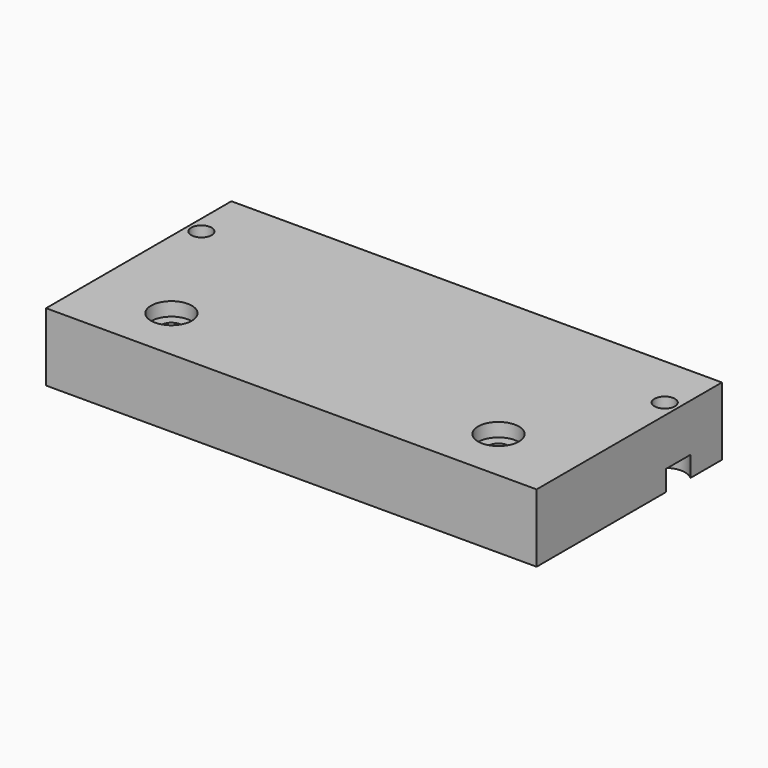
from build123d import *

# Parameters (mm, degrees)
CYLINDER320_R     = 1.5
CYLINDER320_DEPTH = 50
CYLINDER321_R     = 1.5
CYLINDER321_DEPTH = 50
CYLINDER322_R     = 1.5
CYLINDER322_DEPTH = 50
CYLINDER319_R     = 1.5
CYLINDER319_DEPTH = 50
CYLINDER323_R     = 3
CYLINDER323_DEPTH = 4
CYLINDER325_R     = 3
CYLINDER325_DEPTH = 4
CYLINDER326_R     = 3
CYLINDER326_DEPTH = 4
CYLINDER324_R     = 3
CYLINDER324_DEPTH = 4
CYLINDER293_R     = 1.5
CYLINDER293_DEPTH = 50
CYLINDER294_R     = 1.5
CYLINDER294_DEPTH = 50
CYLINDER297_R     = 3
CYLINDER297_DEPTH = 4
CYLINDER298_R     = 3
CYLINDER298_DEPTH = 4
BOX138_W          = 72
BOX138_H          = 34
BOX138_DEPTH      = 10


with BuildPart() as obj1:
    # Cylinder320 → Cylinder320 (new body)
    with BuildSketch(Plane(origin=(-51, 6, 0), x_dir=(1, 0, 0), z_dir=(0, 0, 1))):
        Circle(CYLINDER320_R)
    extrude(amount=CYLINDER320_DEPTH)


with BuildPart() as obj2:
    # Cylinder321 → Cylinder321 (new body)
    with BuildSketch(Plane(origin=(-24, 18, 0), x_dir=(1, 0, 0), z_dir=(0, 0, 1))):
        Circle(CYLINDER321_R)
    extrude(amount=CYLINDER321_DEPTH)


with BuildPart() as obj3:
    # Cylinder322 → Cylinder322 (new body)
    with BuildSketch(Plane(origin=(24, 18, 0), x_dir=(1, 0, 0), z_dir=(0, 0, 1))):
        Circle(CYLINDER322_R)
    extrude(amount=CYLINDER322_DEPTH)


with BuildPart() as compound295:
    # Cylinder319 → Cylinder319 (new body)
    with BuildSketch(Plane(origin=(51, 6, 0), x_dir=(1, 0, 0), z_dir=(0, 0, 1))):
        Circle(CYLINDER319_R)
    extrude(amount=CYLINDER319_DEPTH)

    # Compound295: union obj1, obj2, obj3
    add(obj1.part)
    add(obj2.part)
    add(obj3.part)


with BuildPart() as obj4:
    # Cylinder323 → Cylinder323 (new body)
    with BuildSketch(Plane(origin=(-51, 7, 0), x_dir=(1, 0, 0), z_dir=(0, 0, 1))):
        Circle(CYLINDER323_R)
    extrude(amount=CYLINDER323_DEPTH)


with BuildPart() as obj5:
    # Cylinder325 → Cylinder325 (new body)
    with BuildSketch(Plane(origin=(-24, 18, 0), x_dir=(1, 0, 0), z_dir=(0, 0, 1))):
        Circle(CYLINDER325_R)
    extrude(amount=CYLINDER325_DEPTH)


with BuildPart() as obj6:
    # Cylinder326 → Cylinder326 (new body)
    with BuildSketch(Plane(origin=(24, 18, 0), x_dir=(1, 0, 0), z_dir=(0, 0, 1))):
        Circle(CYLINDER326_R)
    extrude(amount=CYLINDER326_DEPTH)


with BuildPart() as compound296:
    # Cylinder324 → Cylinder324 (new body)
    with BuildSketch(Plane(origin=(51, 7, 0), x_dir=(1, 0, 0), z_dir=(0, 0, 1))):
        Circle(CYLINDER324_R)
    extrude(amount=CYLINDER324_DEPTH)

    # Compound296: union obj4, obj5, obj6
    add(obj4.part)
    add(obj5.part)
    add(obj6.part)


with BuildPart() as compound296_1:
    # Compound296 placement: moved
    add(compound296.part.moved(Location((0, 0, 8))))


with BuildPart() as obj7:
    # Cylinder293 → Cylinder293 (new body)
    with BuildSketch(Plane(origin=(34, 36, 0), x_dir=(1, 0, 0), z_dir=(0, 0, 1))):
        Circle(CYLINDER293_R)
    extrude(amount=CYLINDER293_DEPTH)


with BuildPart() as compound284:
    # Cylinder294 → Cylinder294 (new body)
    with BuildSketch(Plane(origin=(-34, 36, 0), x_dir=(1, 0, 0), z_dir=(0, 0, 1))):
        Circle(CYLINDER294_R)
    extrude(amount=CYLINDER294_DEPTH)

    # Compound284: union obj7
    add(obj7.part)


with BuildPart() as obj8:
    # Cylinder297 → Cylinder297 (new body)
    with BuildSketch(Plane(origin=(34, 36, -1), x_dir=(1, 0, 0), z_dir=(0, 0, 1))):
        Circle(CYLINDER297_R)
    extrude(amount=CYLINDER297_DEPTH)


with BuildPart() as compound282:
    # Cylinder298 → Cylinder298 (new body)
    with BuildSketch(Plane(origin=(-34, 36, -1), x_dir=(1, 0, 0), z_dir=(0, 0, 1))):
        Circle(CYLINDER298_R)
    extrude(amount=CYLINDER298_DEPTH)

    # Compound282: union obj8
    add(obj8.part)


with BuildPart() as cut141:
    # Box138 → Box138 (new body)
    with BuildSketch(Plane(origin=(-36, 10, 0), x_dir=(1, 0, 0), z_dir=(0, 0, 1))):
        with Locations((36, 17)):
            Rectangle(BOX138_W, BOX138_H)
    extrude(amount=BOX138_DEPTH)

    # Cut131: cut Compound282
    add(compound282.part, mode=Mode.SUBTRACT)

    # Cut132: cut Compound284
    add(compound284.part, mode=Mode.SUBTRACT)

    # Cut140: cut Compound296
    add(compound296_1.part, mode=Mode.SUBTRACT)

    # Cut141: cut Compound295
    add(compound295.part, mode=Mode.SUBTRACT)


solid = cut141.part
